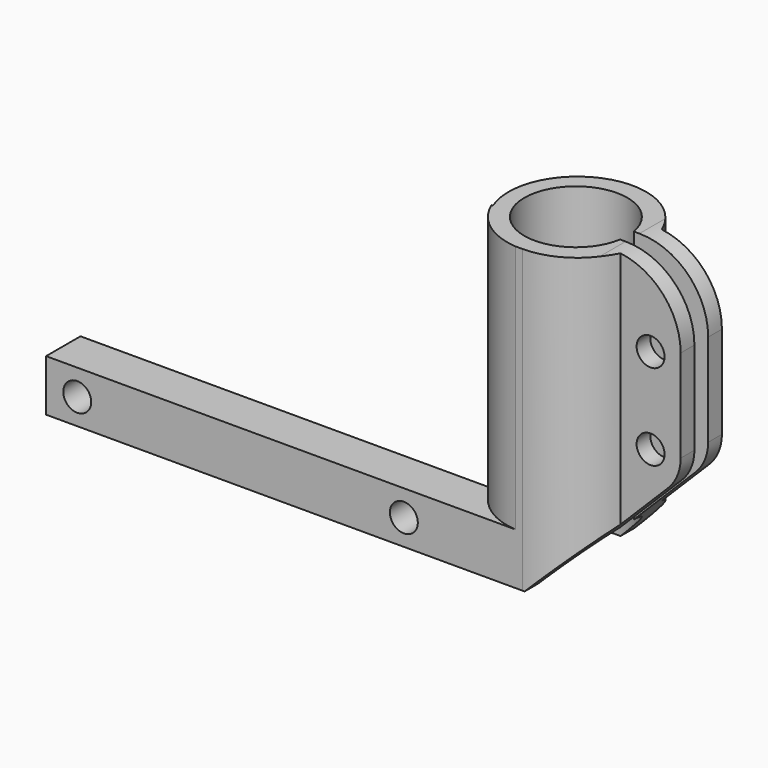
from build123d import *

# Parameters (mm, degrees)
F1_DEPTH  = 35
F4_DEPTH  = 29
F5_R      = 6
F6_DEPTH  = 40
F7_W      = 12.2776310586
F7_H      = 2
F8_DEPTH  = 40
F10_DEPTH = 25
F11_R     = 8
F12_R     = 1.625
F12_R_2   = 1.6250003413
F13_DEPTH = 25
F15_W     = 74.6117010713
F15_H     = 42.9684482515
F16_DEPTH = 25
F17_R     = 5


with BuildPart() as f1:
    # F0 (on Top) → F1 (new body)
    with BuildSketch(Plane.XY):
        with BuildLine():
            Line((-48, 0), (0, 0))
            Line((0, 0), (0, 5))
            Line((0, 5), (-48, 5))
            ThreePointArc((-48, 5), (-52.4161984871, 15.4161984871), (-62.8323969742, 11))
            Line((-62.8323969742, 11), (-69.8323969742, 11))
            Line((-69.8323969742, 11), (-69.8323969742, 5))
            Line((-69.8323969742, 5), (-62.8323969742, 5))
            ThreePointArc((-62.8323969742, 5), (-59.8883344421, 1.3667504193), (-55.4161984871, 0))
            Line((-55.4161984871, 0), (-48, 0))
        make_face()
    extrude(amount=F1_DEPTH)

    # F3 (on offset) → F4 (cut)
    with BuildSketch(Plane.XY.offset(35)):
        with BuildLine():
            Line((-56, 0), (-55.9299111582, 0))
            ThreePointArc((-55.9299111582, 0), (-55.9649623523, 0.0030034406), (-56, 0.0061609878))
            Line((-56, 0.0061609878), (-56, 0))
        make_face()
        with BuildLine():
            ThreePointArc((-55.9299111582, 0), (-55.2644431591, -0.0277260244), (-54.59897516, 0))
            Line((-54.59897516, 0), (-55.9299111582, 0))
        make_face()
        with BuildLine():
            Line((-54.59897516, 0), (0, 0))
            Line((0, 0), (0, 5))
            Line((0, 5), (-47.8370891609, 5))
            ThreePointArc((-47.8370891609, 5), (-50.5080325408, 1.5398127025), (-54.59897516, 0))
        make_face()
    extrude(amount=-F4_DEPTH, mode=Mode.SUBTRACT)

    # F5 (on face) → F6 (cut)
    with BuildSketch(Plane.XY.offset(35)):
        with Locations((-55.2644431591, 7.9722739756)):
            Circle(F5_R)
    extrude(amount=-F6_DEPTH, mode=Mode.SUBTRACT)

    # F7 (on offset) → F8 (cut)
    with BuildSketch(Plane.XY.offset(35)):
        with Locations((-64.1601290554, 8)):
            Rectangle(F7_W, F7_H)
    extrude(amount=-F8_DEPTH, mode=Mode.SUBTRACT)

    # F9 (on Front) → F10 (cut)
    with BuildSketch(Plane.XZ):
        Polygon((-74.45092788, 0), (-55.6752420962, 0), (-74.45092788, 18.7756857838), align=None)
    extrude(amount=-F10_DEPTH, mode=Mode.SUBTRACT)

    # F11
    f11_edges = [f1.edges().sort_by_distance(p)[0] for p in [
        (-69.832397, 6, 35),
        (-69.832397, 10, 35),
    ]]
    fillet(f11_edges, radius=F11_R)

    # F12 (on Front) → F13 (cut)
    with BuildSketch(Plane.XZ):
        with Locations((-3.625, 3)):
            Circle(F12_R)
        with Locations((-41.625, 3)):
            Circle(F12_R)
        with Locations((-66.3323969742, 16)):
            Circle(F12_R_2)
        with Locations((-66.3323969742, 26)):
            Circle(F12_R)
    extrude(amount=-F13_DEPTH, mode=Mode.SUBTRACT)

    # F14: F1 across plane


with BuildPart() as f1_1:
    add(f1.part)
    add(f1.part.mirror(Plane.YZ))

    # F15 (on Front) → F16 (cut)
    with BuildSketch(Plane.XZ):
        with Locations((-37.3058505356, 21.4842241257)):
            Rectangle(F15_W, F15_H)
    extrude(amount=-F16_DEPTH, mode=Mode.SUBTRACT)

    # F17
    f17_edges = [f1_1.edges().sort_by_distance(p)[0] for p in [
        (69.832397, 6, 14.157155),
        (69.832397, 10, 14.157155),
    ]]
    fillet(f17_edges, radius=F17_R)


solid = f1_1.part
